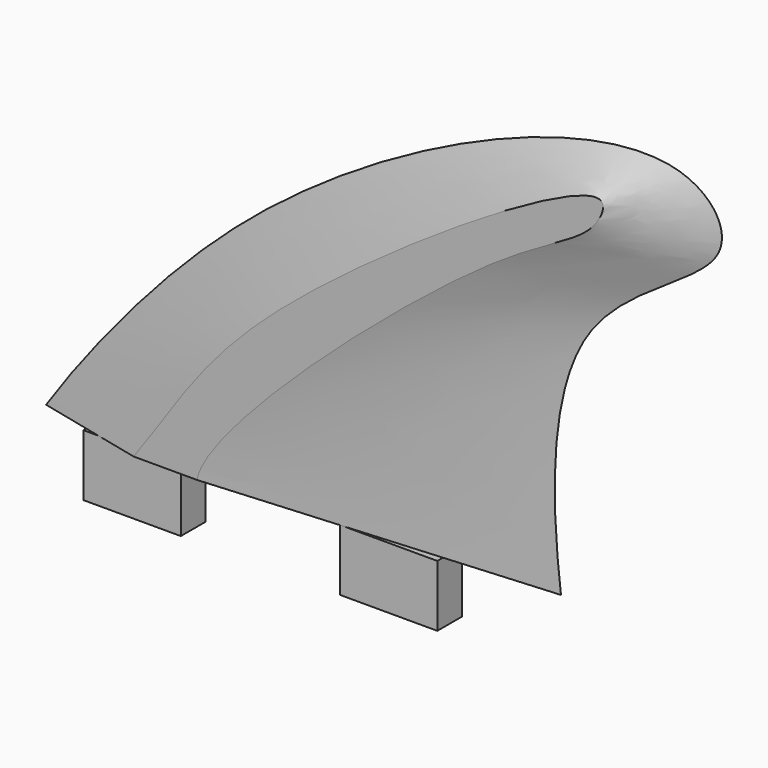
from build123d import *

# Parameters (mm, degrees)
F5_W     = 19
F5_H     = 12
F6_DEPTH = 3


with BuildPart() as f3:
    # F0 (on Front) → F3 section 0
    with BuildSketch(Plane.XZ):
        with BuildLine():
            add(Edge.make_bspline(
                [(-33.4539487958, 0), (-33.4539475141, 0), (1.8967446088, 54.4877709826), (87.6792873597, 91.6592373474), (104.7614702217, 65.474297534), (62.0720738186, 52.2220753998), (65.4690045649, 12.016653457), (66.9079050422, 0)],
                knots=[0, 0, 0, 0, 0.2258859795, 0.5122183994, 0.6229913169, 0.7959413028, 1, 1, 1, 1], degree=3))
            Line((-33.4539487958, 0), (66.9079050422, 0))
        make_face()
    # F2 (on offset) → F3 section 1
    with BuildSketch(Plane.XZ.offset(5)):
        with BuildLine():
            add(Edge.make_bspline(
                [(-12.3913707212, 0), (-4.3907383925, 10.8659039807), (5.5855721966, 32.4205796435), (83.1861544033, 82.0508925585), (76.9843234234, 65.810450768), (58.1651473267, 60.4997302931), (1.3900142987, 9.9120248782), (0, 0)],
                knots=[0, 0, 0, 0, 0.2108575974, 0.4883367114, 0.5577546823, 0.7117913524, 1, 1, 1, 1], degree=3))
            Line((-12.3913707212, 0), (0, 0))
        make_face()
    loft()

    # F4: F3 across plane


with BuildPart() as f3_1:
    add(f3.part)
    add(f3.part.mirror(Plane.XZ))

    # F5 (on Front) → F6 (join, symmetric)
    with BuildSketch(Plane.XZ):
        with Locations((35.7055166066, -6)):
            Rectangle(F5_W, F5_H)
        with Locations((-14.2944833934, -6)):
            Rectangle(F5_W, F5_H)
    extrude(amount=F6_DEPTH, both=True)


solid = f3_1.part
